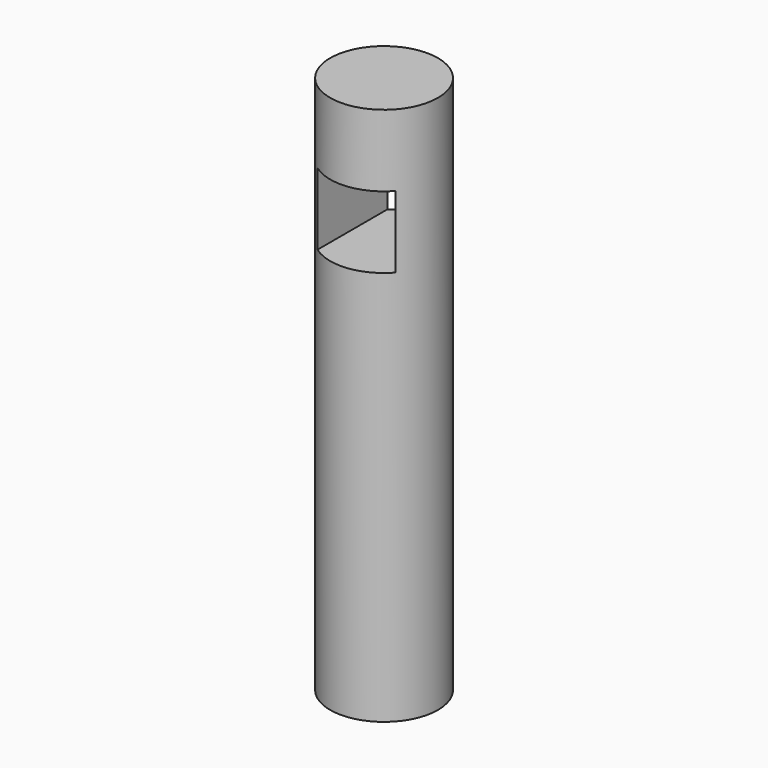
from build123d import *

# Parameters (mm, degrees)
F0_R     = 15
F1_DEPTH = 150
F2_W     = 20
F2_H     = 20
F3_DEPTH = 15.001
F4_DEPTH = 15.001


with BuildPart() as f1:
    # F0 (on Top) → F1 (new body)
    with BuildSketch(Plane.XY):
        Circle(F0_R)
    extrude(amount=F1_DEPTH)

    # F2 (on Front) → F3 (cut, through all)
    with BuildSketch(Plane.XZ):
        with Locations((1.2132771455, 120)):
            Rectangle(F2_W, F2_H)
    extrude(amount=-F3_DEPTH, mode=Mode.SUBTRACT)

    # F2 (on Front) → F4 (cut, through all)
    with BuildSketch(Plane.XZ):
        with Locations((1.2132771455, 120)):
            Rectangle(F2_W, F2_H)
    extrude(amount=F4_DEPTH, mode=Mode.SUBTRACT)


solid = f1.part
